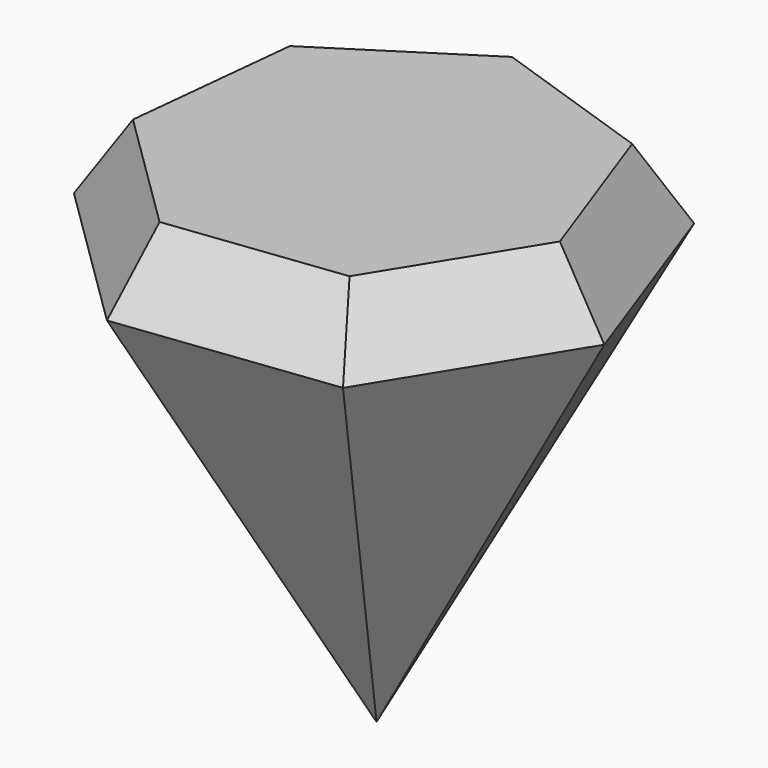
from build123d import *

# Parameters (mm, degrees)
F5_SIZE = 12.7


with BuildPart() as f4:
    # F3 (on offset) → F4 section 0
    with BuildSketch(Plane.XY.offset(152.4), mode=Mode.PRIVATE) as f4_s0:
        Polygon((24.24662, -37.852013), (44.711416, -4.643573), (31.507603, 32.061572), (-5.422077, 44.6237), (-38.268823, 23.583271), (-42.298365, -15.215842), (-14.476375, -42.557115), align=None)
    loft([Vertex(0, 0, 76.2), f4_s0.sketch])

    # F5
    f5_edges = [f4.edges().sort_by_distance(p)[0] for p in [
        (-21.84545, 34.103485, 152.4),
        (-40.283594, 4.183715, 152.4),
        (-28.38737, -28.886479, 152.4),
        (4.885123, -40.204564, 152.4),
        (34.479018, -21.247793, 152.4),
        (38.10951, 13.709, 152.4),
        (13.042763, 38.342636, 152.4),
    ]]
    chamfer(f5_edges, length=F5_SIZE)


solid = f4.part
